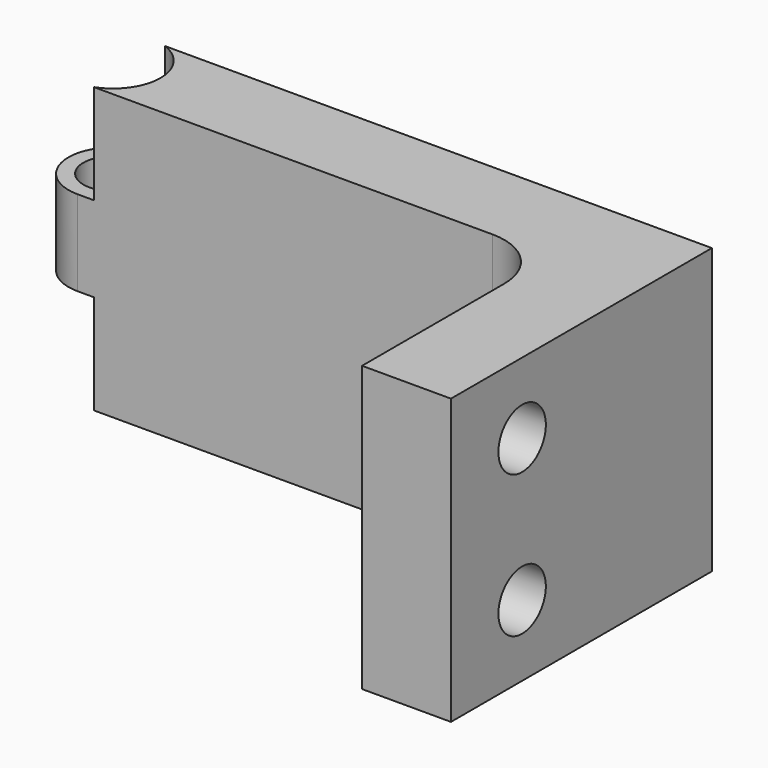
from build123d import *

# Parameters (mm, degrees)
F0_R     = 1.5875
F1_DEPTH = 15.24
F3_W     = 2.54
F3_H     = 5.334
F5_R     = 1.5875
F6_DEPTH = 4.7635


with BuildPart() as f1:
    # F0 (on Top) → F1 (new body)
    with BuildSketch(Plane.XY):
        with BuildLine():
            ThreePointArc((-3.175, 0), (-0.929936, -0.929936), (0, -3.175))
            Line((0, -3.175), (0, -12.7))
            Line((0, -12.7), (4.7625, -12.7))
            Line((4.7625, -12.7), (4.7625, 4.7625))
            Line((4.7625, 4.7625), (-25.4, 4.7625))
            ThreePointArc((-25.4, 4.7625), (-27.78125, 2.38125), (-25.4, 0))
            Line((-25.4, 0), (-3.175, 0))
        make_face()
        with Locations((-25.4, 2.38125)):
            Circle(F0_R, mode=Mode.SUBTRACT)
    extrude(amount=F1_DEPTH)

    # F3 (on offset) → F4 (revolve, cut)
    with BuildSketch(Plane.XZ.offset(-2.38125)):
        with Locations((-26.67, 12.573)):
            Rectangle(F3_W, F3_H)
        with Locations((-26.67, 2.667)):
            Rectangle(F3_W, F3_H)
    revolve(axis=Axis((-25.4, 2.38125, 12.573), (0, 0, -1)), mode=Mode.SUBTRACT)

    # F5 (on face) → F6 (cut, through all)
    with BuildSketch(Plane(origin=(0, 0, 0), x_dir=(0, -1, 0), z_dir=(-1, 0, 0))):
        with Locations((7.9375, 11.43)):
            Circle(F5_R)
        with Locations((7.9375, 3.81)):
            Circle(F5_R)
    extrude(amount=-F6_DEPTH, mode=Mode.SUBTRACT)


solid = f1.part
